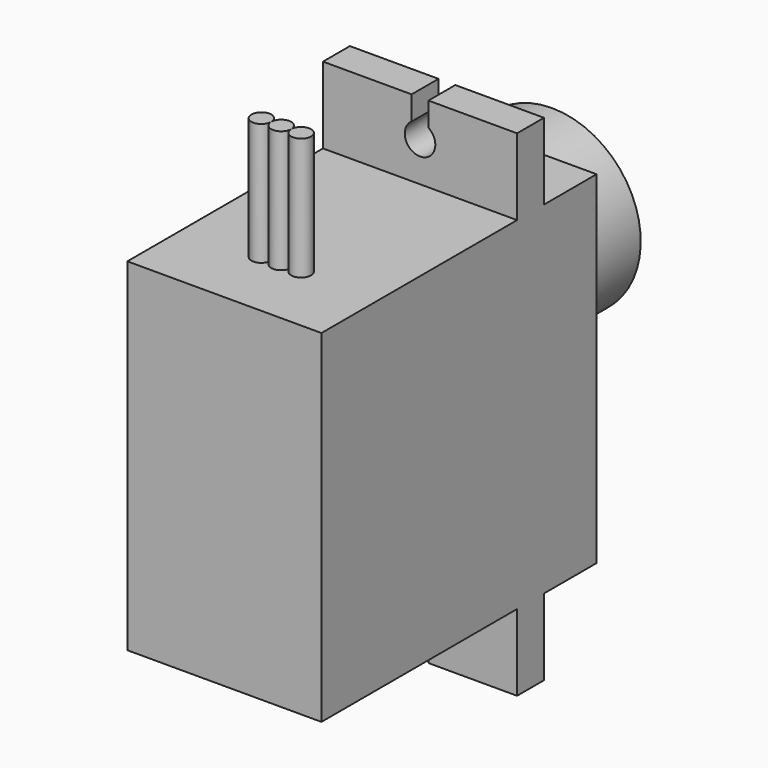
from build123d import *

# Parameters (mm, degrees)
CYLINDER035_R             = 0.65
CYLINDER035_DEPTH         = 10
CYLINDER036_R             = 0.65
CYLINDER036_DEPTH         = 10
CYLINDER037_R             = 0.65
CYLINDER037_DEPTH         = 10
CYLINDER038_R             = 1
CYLINDER038_DEPTH         = 10
BOX033_W                  = 10
BOX033_H                  = 1.1
BOX033_DEPTH              = 10
CYLINDER039_R             = 1
CYLINDER039_DEPTH         = 10
BOX034_W                  = 10
BOX034_H                  = 1.1
BOX034_DEPTH              = 10
FUSION036_PLACEMENT_ANGLE = 180
BOX032_W                  = 5
BOX032_H                  = 12.7
BOX032_DEPTH              = 4.3
BOX031_W                  = 5
BOX031_H                  = 12.7
BOX031_DEPTH              = 4.3
BOX030_W                  = 5
BOX030_H                  = 12.7
BOX030_DEPTH              = 16
BOX029_W                  = 5
BOX029_H                  = 12.7
BOX029_DEPTH              = 16
BOX028_W                  = 32.4
BOX028_H                  = 12.7
BOX028_DEPTH              = 22.5
CYLINDER034_R             = 2.3
CYLINDER034_DEPTH         = 29.4
CYLINDER033_R             = 2.5
CYLINDER033_DEPTH         = 26.8
CYLINDER032_R             = 5.8
CYLINDER032_DEPTH         = 26.8
FUSION042_PITCH_ANGLE     = 90
FUSION042_PLACEMENT_ANGLE = 90


with BuildPart() as obj1:
    # Cylinder035 → Cylinder035 (new body)
    with BuildSketch(Plane.ZY):
        Circle(CYLINDER035_R)
    extrude(amount=CYLINDER035_DEPTH)


with BuildPart() as obj2:
    # Cylinder036 → Cylinder036 (new body)
    with BuildSketch(Plane(origin=(0, 1.3, 0), x_dir=(0, 0, 1), z_dir=(-1, 0, 0))):
        Circle(CYLINDER036_R)
    extrude(amount=CYLINDER036_DEPTH)


with BuildPart() as cables004:
    # Cylinder037 → Cylinder037 (new body)
    with BuildSketch(Plane(origin=(0, -1.3, 0), x_dir=(0, 0, 1), z_dir=(-1, 0, 0))):
        Circle(CYLINDER037_R)
    extrude(amount=CYLINDER037_DEPTH)

    # Fusion040: union obj1, obj2
    add(obj1.part)
    add(obj2.part)


with BuildPart() as cables004_1:
    # Fusion040 placement: moved
    add(cables004.part.moved(Location((7, 6.35, 4.65))))


with BuildPart() as zylinder008:
    # Cylinder038 → Cylinder038 (new body)
    with BuildSketch(Plane.XY):
        Circle(CYLINDER038_R)
    extrude(amount=CYLINDER038_DEPTH)


with BuildPart() as obj3:
    # Box033 → Box033 (new body)
    with BuildSketch(Plane(origin=(-10, -0.55, 0), x_dir=(1, 0, 0), z_dir=(0, 0, 1))):
        with Locations((5, 0.55)):
            Rectangle(BOX033_W, BOX033_H)
    extrude(amount=BOX033_DEPTH)

    # Fusion037: union Zylinder008
    add(zylinder008.part)


with BuildPart() as obj3_1:
    # Fusion037 placement: moved
    add(obj3.part.moved(Location((2.4, 0, 0))))


with BuildPart() as zylinder009:
    # Cylinder039 → Cylinder039 (new body)
    with BuildSketch(Plane.XY):
        Circle(CYLINDER039_R)
    extrude(amount=CYLINDER039_DEPTH)


with BuildPart() as drillslots004:
    # Box034 → Box034 (new body)
    with BuildSketch(Plane(origin=(-10, -0.55, 0), x_dir=(1, 0, 0), z_dir=(0, 0, 1))):
        with Locations((5, 0.55)):
            Rectangle(BOX034_W, BOX034_H)
    extrude(amount=BOX034_DEPTH)

    # Fusion036: union Zylinder009
    add(zylinder009.part)


with BuildPart() as drillslots004_1:
    # Fusion036 placement: moved
    add(drillslots004.part.moved(Location((30, 0, 0))).rotate(Axis((30, 0, 0), (0, 0, 1)), FUSION036_PLACEMENT_ANGLE))

    # Fusion041: union obj3
    add(obj3_1.part)


with BuildPart() as drillslots004_2:
    # Fusion041 placement: moved
    add(drillslots004_1.part.moved(Location((0, 6.35, 13))))


with BuildPart() as obj4:
    # Box032 → Box032 (new body)
    with BuildSketch(Plane(origin=(27.4, 0, 0), x_dir=(1, 0, 0), z_dir=(0, 0, 1))):
        with Locations((2.5, 6.35)):
            Rectangle(BOX032_W, BOX032_H)
    extrude(amount=BOX032_DEPTH)


with BuildPart() as uppercuts004:
    # Box031 → Box031 (new body)
    with BuildSketch(Plane.XY):
        with Locations((2.5, 6.35)):
            Rectangle(BOX031_W, BOX031_H)
    extrude(amount=BOX031_DEPTH)

    # Fusion039: union obj4
    add(obj4.part)


with BuildPart() as uppercuts004_1:
    # Fusion039 placement: moved
    add(uppercuts004.part.moved(Location((0, 0, 18.2))))


with BuildPart() as obj5:
    # Box030 → Box030 (new body)
    with BuildSketch(Plane.XY):
        with Locations((2.5, 6.35)):
            Rectangle(BOX030_W, BOX030_H)
    extrude(amount=BOX030_DEPTH)


with BuildPart() as obj6:
    # Box029 → Box029 (new body)
    with BuildSketch(Plane(origin=(27.4, 0, 0), x_dir=(1, 0, 0), z_dir=(0, 0, 1))):
        with Locations((2.5, 6.35)):
            Rectangle(BOX029_W, BOX029_H)
    extrude(amount=BOX029_DEPTH)


with BuildPart() as cutbody004:
    # Box028 → Box028 (new body)
    with BuildSketch(Plane.XY):
        with Locations((16.2, 6.35)):
            Rectangle(BOX028_W, BOX028_H)
    extrude(amount=BOX028_DEPTH)

    # Cut016: cut obj6
    add(obj6.part, mode=Mode.SUBTRACT)

    # Cut017: cut obj5
    add(obj5.part, mode=Mode.SUBTRACT)

    # Cut018: cut UpperCuts004
    add(uppercuts004_1.part, mode=Mode.SUBTRACT)

    # Cut019: cut DrillSlots004
    add(drillslots004_2.part, mode=Mode.SUBTRACT)


with BuildPart() as axis004:
    # Cylinder034 → Cylinder034 (new body)
    with BuildSketch(Plane(origin=(10.8, 6.35, 0), x_dir=(1, 0, 0), z_dir=(0, 0, 1))):
        Circle(CYLINDER034_R)
    extrude(amount=CYLINDER034_DEPTH)


with BuildPart() as sideaxis004:
    # Cylinder033 → Cylinder033 (new body)
    with BuildSketch(Plane(origin=(17, 6.35, 0), x_dir=(1, 0, 0), z_dir=(0, 0, 1))):
        Circle(CYLINDER033_R)
    extrude(amount=CYLINDER033_DEPTH)


with BuildPart() as obj7:
    # Cylinder032 → Cylinder032 (new body)
    with BuildSketch(Plane(origin=(10.8, 6.35, 0), x_dir=(1, 0, 0), z_dir=(0, 0, 1))):
        Circle(CYLINDER032_R)
    extrude(amount=CYLINDER032_DEPTH)

    # Fusion038: union SideAxis004
    add(sideaxis004.part)

    # Fusion035: union Axis004
    add(axis004.part)

    # Fusion042: union Cables004, CutBody004
    add(cables004_1.part)
    add(cutbody004.part)


with BuildPart() as obj7_1:
    # Fusion042 pitch: moved
    add(obj7.part.rotate(Axis((0, 0, 0), (0, 1, 0)), FUSION042_PITCH_ANGLE))


with BuildPart() as obj7_2:
    # Fusion042 placement: moved
    add(obj7_1.part.moved(Location((6.3, -128.5, -71))).rotate(Axis((6.3, -128.5, -71), (0, 0, 1)), FUSION042_PLACEMENT_ANGLE))


solid = obj7_2.part
